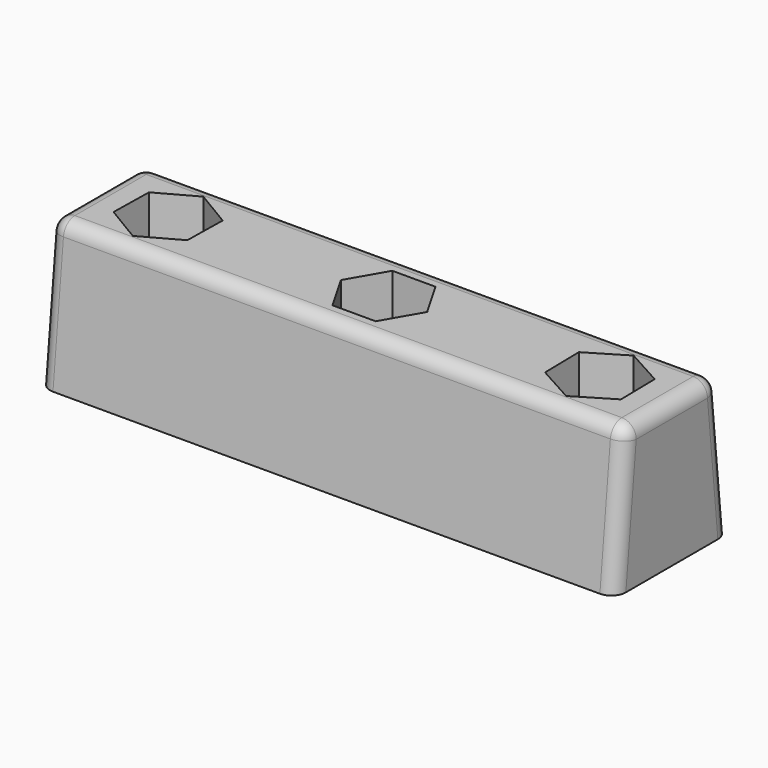
from build123d import *

# Parameters (mm, degrees)
F1_DEPTH      = 20
F1_DEPTH_BACK = 20
F2_R          = 1.5
F3_DEPTH      = 10
F5_DEPTH      = 3
F6_R          = 1
F7_R          = 1


with BuildPart() as f1:
    # F0 (on Right) → F1 (new body, two sides)
    with BuildSketch(Plane.YZ) as f1_sk:
        with BuildLine():
            Line((-5, 0), (0, 0))
            Line((0, 0), (5, 0))
            Line((5, 0), (4.0900496281, 9.099503719))
            ThreePointArc((4.0900496281, 9.099503719), (3.7660177586, 9.7414525336), (3.0950124379, 10))
            Line((3.0950124379, 10), (0, 10))
            Line((0, 10), (-3.0950124379, 10))
            ThreePointArc((-3.0950124379, 10), (-3.7660177586, 9.7414525336), (-4.0900496281, 9.099503719))
            Line((-4.0900496281, 9.099503719), (-5, 0))
        make_face()
    extrude(amount=F1_DEPTH)
    extrude(f1_sk.sketch, amount=-F1_DEPTH_BACK)

    # F2 (on face) → F3 (cut, through all)
    with BuildSketch(Plane.XY.offset(10)):
        with Locations((-15, 0)):
            Circle(F2_R)
        with Locations((15, 0)):
            Circle(F2_R)
        Circle(F2_R)
    extrude(amount=-F3_DEPTH, mode=Mode.SUBTRACT)

    # F4 (on face) → F5 (cut)
    with BuildSketch(Plane.XY.offset(10)):
        Polygon((-12.3749576506, 1.4532932788), (-14.9460677239, 3), (-17.5711100733, 1.5467067212), (-17.6250423494, -1.4532932788), (-15.0539322761, -3), (-12.4288899267, -1.5467067212), align=None)
        Polygon((17.5711100733, 1.5467067212), (14.9460677239, 3), (12.3749576506, 1.4532932788), (12.4288899267, -1.5467067212), (15.0539322761, -3), (17.6250423494, -1.4532932788), align=None)
        Polygon((1.5, 2.5980762114), (-1.5, 2.5980762114), (-3, 0), (-1.5, -2.5980762114), (1.5, -2.5980762114), (3, 0), align=None)
    extrude(amount=-F5_DEPTH, mode=Mode.SUBTRACT)

    # F6
    f6_edges = [f1.edges().sort_by_distance(p)[0] for p in [
        (20, 0, 10),
    ]]
    fillet(f6_edges, radius=F6_R)

    # F7
    f7_edges = [f1.edges().sort_by_distance(p)[0] for p in [
        (-20, 0, 10),
    ]]
    fillet(f7_edges, radius=F7_R)


solid = f1.part
